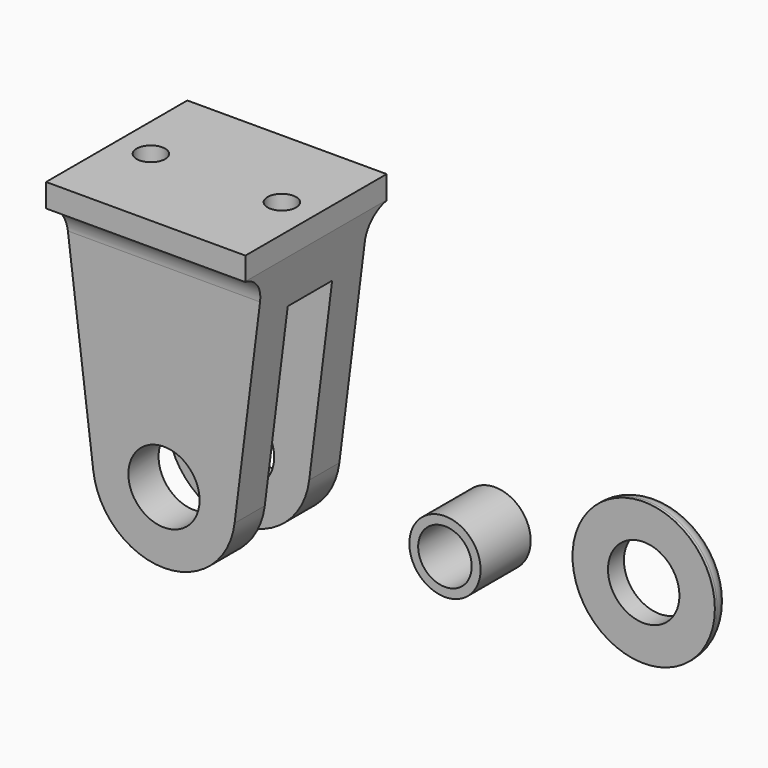
from build123d import *

# Parameters (mm, degrees)
F0_W      = 17.78
F0_H      = 2.032
F0_R      = 3.175
F1_DEPTH  = 15.748
F3_DEPTH  = 17.781
F5_DEPTH  = 17.781
F6_R      = 1.27
F7_DEPTH  = 25.4
F8_R      = 3.17754
F8_R_2    = 2.3876
F9_DEPTH  = 5.588
F10_R     = 6.35
F10_R_2   = 3.1877
F11_DEPTH = 1.778
F12_R     = 1.524


with BuildPart() as f1:
    # F0 (on Front) → F1 (new body)
    with BuildSketch(Plane.XZ):
        with Locations((0, 13.1064)):
            Rectangle(F0_W, F0_H)
        with BuildLine():
            Line((6.300674, -8.562343), (8.89, 12.0904))
            Line((8.89, 12.0904), (-8.89, 12.0904))
            Line((-8.89, 12.0904), (-6.300674, -8.562343))
            ThreePointArc((-6.300674, -8.562343), (0, -14.1224), (6.300674, -8.562343))
        make_face()
        with Locations((0, -7.7724)):
            Circle(F0_R, mode=Mode.SUBTRACT)
    extrude(amount=-F1_DEPTH)

    # F2 (on face) → F3 (cut, through all)
    with BuildSketch(Plane(origin=(-8.89, 0, 0), x_dir=(0, -1, 0), z_dir=(-1, 0, 0))):
        Polygon((-5.3975, 7.7724), (-10.3505, 7.7724), (-10.3505, -8.7884), (-10.3505, -15.734874), (-5.3975, -15.734874), (-5.3975, -8.7884), align=None)
    extrude(amount=-F3_DEPTH, mode=Mode.SUBTRACT)

    # F4 (on face) → F5 (cut, through all)
    with BuildSketch(Plane.YZ.offset(8.89)):
        with BuildLine():
            ThreePointArc((16.256, 12.0904), (14.459949, 11.346451), (13.716, 9.5504))
            Line((13.716, 9.5504), (13.716, -23.945976))
            Line((13.716, -23.945976), (22.954069, -23.945976))
            Line((22.954069, -23.945976), (22.954069, 12.0904))
            Line((22.954069, 12.0904), (16.256, 12.0904))
        make_face()
        with BuildLine():
            Line((-2.601736, -59.50403), (2.032, -59.50403))
            Line((2.032, -59.50403), (2.032, 9.5504))
            ThreePointArc((2.032, 9.5504), (1.288051, 11.346451), (-0.508, 12.0904))
            Line((-0.508, 12.0904), (-2.601736, 12.0904))
            Line((-2.601736, 12.0904), (-2.601736, -59.50403))
        make_face()
    extrude(amount=-F5_DEPTH, mode=Mode.SUBTRACT)

    # F6 (on face) → F7 (cut)
    with BuildSketch(Plane.XY.offset(14.1224)):
        with Locations((5.842, 7.874)):
            Circle(F6_R)
        with Locations((-5.842, 7.874)):
            Circle(F6_R)
    extrude(amount=-F7_DEPTH, mode=Mode.SUBTRACT)


with BuildPart() as f9:
    # F8 (on Front) → F9 (new body)
    with BuildSketch(Plane.XZ):
        with Locations((31.161029, 0)):
            Circle(F8_R)
        with Locations((31.161029, 0)):
            Circle(F8_R_2, mode=Mode.SUBTRACT)
    extrude(amount=F9_DEPTH)


with BuildPart() as f11:
    # F10 (on Front) → F11 (new body)
    with BuildSketch(Plane.XZ):
        with Locations((44.41838, 0)):
            Circle(F10_R)
        with Locations((44.41838, 0)):
            Circle(F10_R_2, mode=Mode.SUBTRACT)
    extrude(amount=-F11_DEPTH)

    # F12
    f12_edges = [f11.edges().sort_by_distance(p)[0] for p in [
        (38.06838, 1.778, 0),
    ]]
    fillet(f12_edges, radius=F12_R)


solid = Compound([f1.part, f9.part, f11.part])
